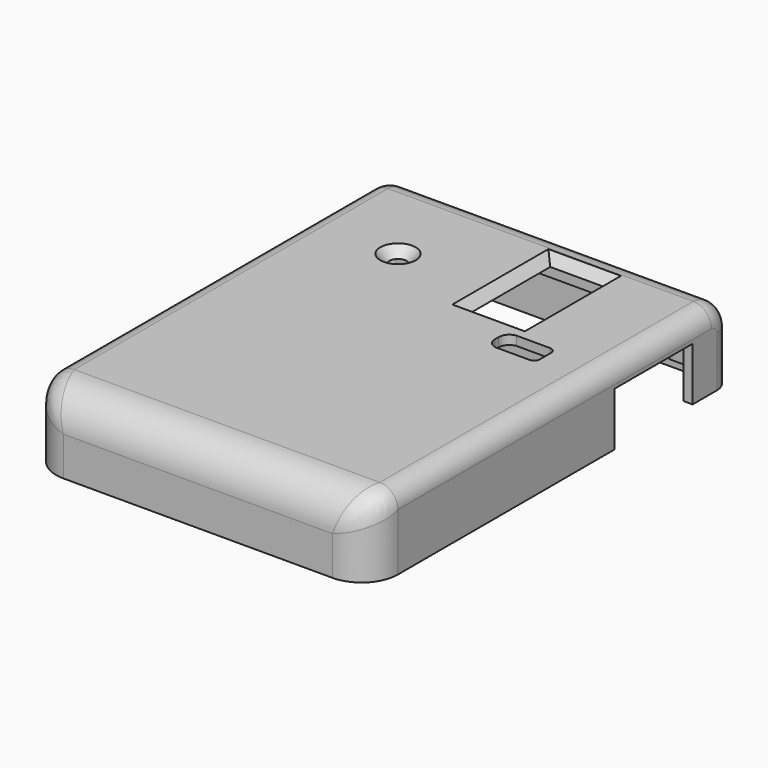
from build123d import *

# Parameters (mm, degrees)
SKETCH_W        = 75.4
SKETCH_H        = 100
PAD_DEPTH       = 16.6
SKETCH005_W     = 71.4
SKETCH005_H     = 96
POCKET_DEPTH    = 14.6
SKETCH006_W     = 21.6
SKETCH006_H     = 11.8
POCKET001_DEPTH = 2
SKETCH007_W     = 21.6
SKETCH007_H     = 11.8
POCKET002_DEPTH = 2
SKETCH008_W     = 7.6
SKETCH008_H     = 8.2
POCKET003_DEPTH = 2
POCKET004_DEPTH = 2
SKETCH010_R     = 3.9
SKETCH010_W     = 16
SKETCH010_H     = 26.5
POCKET005_DEPTH = 2
POCKET005_TAPER = 45
SKETCH011_W     = 15
SKETCH011_H     = 2
PAD005_DEPTH    = 14.6
SKETCH012_R     = 1.1
PAD006_DEPTH    = 8.6
SKETCH013_R     = 1.1
PAD007_DEPTH    = 10.4
FILLET_R        = 2
FILLET001_R     = 4
FILLET002_R     = 1
FILLET003_R     = 6
FILLET004_R     = 5.5
FILLET005_R     = 4
SKETCH022_W     = 31.2
SKETCH022_H     = 29
SKETCH022_W_2   = 28.8
SKETCH022_H_2   = 26.6
PAD013_DEPTH    = 3.4
FILLET011_R     = 8


with BuildPart() as part:
    # Sketch → Pad (new body)
    with BuildSketch(Plane.XY):
        with Locations((0, -28.5)):
            Rectangle(SKETCH_W, SKETCH_H)
    extrude(amount=PAD_DEPTH)

    # Sketch005 (on Face5 of Pad) → Pocket (cut)
    with BuildSketch(Plane(origin=(0, 0, 0), x_dir=(1, 0, 0), z_dir=(0, 0, -1))):
        with Locations((0, 28.5)):
            Rectangle(SKETCH005_W, SKETCH005_H)
    extrude(amount=-POCKET_DEPTH, mode=Mode.SUBTRACT)

    # Sketch006 (on Face3 of Pocket) → Pocket001 (cut)
    with BuildSketch(Plane.YZ.offset(37.7)):
        with Locations((0, 5.9)):
            Rectangle(SKETCH006_W, SKETCH006_H)
    extrude(amount=-POCKET001_DEPTH, mode=Mode.SUBTRACT)

    # Sketch007 (on Face2 of Pocket) → Pocket002 (cut)
    with BuildSketch(Plane(origin=(-37.7, 0, 0), x_dir=(0, -1, 0), z_dir=(-1, 0, 0))):
        with Locations((0, 5.9)):
            Rectangle(SKETCH007_W, SKETCH007_H)
    extrude(amount=-POCKET002_DEPTH, mode=Mode.SUBTRACT)

    # Sketch008 (on Face1 of Pocket) → Pocket003 (cut)
    with BuildSketch(Plane(origin=(0, 21.5, 0), x_dir=(-1, 0, 0), z_dir=(0, 1, 0))):
        with Locations((22, 4.1)):
            Rectangle(SKETCH008_W, SKETCH008_H)
    extrude(amount=-POCKET003_DEPTH, mode=Mode.SUBTRACT)

    # Sketch009 (on Face5 of Pocket) → Pocket004 (cut)
    with BuildSketch(Plane.XY.offset(16.6)):
        with BuildLine():
            Line((15.825713, -15.337742), (15.825713, -16.321696))
            ThreePointArc((15.825713, -16.321696), (16.397859, -17.902616), (17.897046, -18.663599))
            Line((17.897046, -18.663599), (25.282393, -18.663599))
            ThreePointArc((25.282393, -18.663599), (26.185781, -18.272491), (26.544973, -17.355945))
            Line((26.544973, -14.219638), (26.544973, -17.355945))
            ThreePointArc((26.544973, -14.219638), (26.159832, -13.349897), (25.274241, -13.00275))
            Line((17.921865, -13.00275), (25.274241, -13.00275))
            ThreePointArc((17.921865, -13.00275), (16.411472, -13.755218), (15.825713, -15.337742))
        make_face()
    extrude(amount=-POCKET004_DEPTH, mode=Mode.SUBTRACT)

    # Sketch010 (on Face5 of Pocket) → Pocket005 (cut)
    with BuildSketch(Plane.XY.offset(16.6)):
        with Locations((-17.145816, -1.900756)):
            Circle(SKETCH010_R)
        with Locations((10, 2.4)):
            Rectangle(SKETCH010_W, SKETCH010_H)
    extrude(amount=-POCKET005_DEPTH, taper=POCKET005_TAPER, mode=Mode.SUBTRACT)

    # Sketch011 (on Face11 of Pocket) → Pad005 (join)
    with BuildSketch(Plane(origin=(0, 0, 14.6), x_dir=(1, 0, 0), z_dir=(0, 0, -1))):
        with Locations((-28.2, 47.5)):
            Rectangle(SKETCH011_W, SKETCH011_H)
        with Locations((-28.2, 20.5)):
            Rectangle(SKETCH011_W, SKETCH011_H)
        with Locations((28.2, 47.5)):
            Rectangle(SKETCH011_W, SKETCH011_H)
        with Locations((28.2, 20.5)):
            Rectangle(SKETCH011_W, SKETCH011_H)
    extrude(amount=PAD005_DEPTH)

    # Sketch012 (on Face11 of Pocket) → Pad006 (join)
    with BuildSketch(Plane(origin=(0, 0, 14.6), x_dir=(1, 0, 0), z_dir=(0, 0, -1))):
        with BuildLine():
            Line((-35.7, -12.5), (-31.85, -12.5))
            ThreePointArc((-28.85, -15.5), (-29.72868, -13.37868), (-31.85, -12.5))
            Line((-28.85, -19.5), (-28.85, -15.5))
            Line((-28.85, -19.5), (-35.7, -19.5))
            Line((-35.7, -12.5), (-35.7, -19.5))
        make_face()
        with Locations((-31.85, -15.5)):
            Circle(SKETCH012_R, mode=Mode.SUBTRACT)
        with BuildLine():
            Line((28.85, -19.5), (28.85, -15.5))
            ThreePointArc((31.85, -12.5), (29.72868, -13.37868), (28.85, -15.5))
            Line((35.7, -12.5), (31.85, -12.5))
            Line((35.7, -12.5), (35.7, -19.5))
            Line((28.85, -19.5), (35.7, -19.5))
        make_face()
        with Locations((31.85, -15.5)):
            Circle(SKETCH012_R, mode=Mode.SUBTRACT)
        with BuildLine():
            Line((-35.7, 12.5), (-35.7, 19.5))
            Line((-35.7, 19.5), (-28.85, 19.5))
            Line((-28.85, 19.5), (-28.85, 15.5))
            ThreePointArc((-31.85, 12.5), (-29.72868, 13.37868), (-28.85, 15.5))
            Line((-35.7, 12.5), (-31.85, 12.5))
        make_face()
        with Locations((-31.85, 15.5)):
            Circle(SKETCH012_R, mode=Mode.SUBTRACT)
        with BuildLine():
            Line((31.85, 12.5), (35.7, 12.5))
            Line((35.7, 12.5), (35.7, 19.5))
            Line((35.7, 19.5), (28.85, 19.5))
            Line((28.85, 19.5), (28.85, 15.5))
            ThreePointArc((28.85, 15.5), (29.72868, 13.37868), (31.85, 12.5))
        make_face()
        with Locations((31.85, 15.5)):
            Circle(SKETCH012_R, mode=Mode.SUBTRACT)
    extrude(amount=PAD006_DEPTH)

    # Sketch013 (on Face11 of Pocket) → Pad007 (join)
    with BuildSketch(Plane(origin=(0, 0, 14.6), x_dir=(1, 0, 0), z_dir=(0, 0, -1))):
        with BuildLine():
            Line((-35.7, 76.5), (-29.35, 76.5))
            Line((-29.35, 76.5), (-29.35, 72.5))
            ThreePointArc((-31.85, 70), (-30.082233, 70.732233), (-29.35, 72.5))
            Line((-35.7, 70), (-31.85, 70))
            Line((-35.7, 76.5), (-35.7, 70))
        make_face()
        with Locations((-31.85, 72.5)):
            Circle(SKETCH013_R, mode=Mode.SUBTRACT)
        with BuildLine():
            Line((35.7, 76.5), (35.7, 70))
            Line((35.7, 70), (31.85, 70))
            ThreePointArc((29.35, 72.5), (30.082233, 70.732233), (31.85, 70))
            Line((29.35, 76.5), (29.35, 72.5))
            Line((35.7, 76.5), (29.35, 76.5))
        make_face()
        with Locations((31.85, 72.5)):
            Circle(SKETCH013_R, mode=Mode.SUBTRACT)
    extrude(amount=PAD007_DEPTH)

    # Fillet
    fillet_edges = [part.edges().sort_by_distance(p)[0] for p in [
        (-35.7, 0, 14.6),
        (-35.7, -34, 14.6),
        (-35.7, -59.25, 14.6),
        (35.7, 0, 14.6),
        (35.7, -34, 14.6),
        (35.7, -59.25, 14.6),
    ]]
    fillet(fillet_edges, radius=FILLET_R)

    # Fillet001
    fillet001_edges = [part.edges().sort_by_distance(p)[0] for p in [
        (0, 19.5, 14.6),
        (0, -76.5, 14.6),
    ]]
    fillet(fillet001_edges, radius=FILLET001_R)

    # Fillet002
    fillet002_edges = [part.edges().sort_by_distance(p)[0] for p in [
        (-35.7, 19.5, 3),
        (35.7, 19.5, 3),
    ]]
    fillet(fillet002_edges, radius=FILLET002_R)

    # Fillet003
    fillet003_edges = [part.edges().sort_by_distance(p)[0] for p in [
        (-35.7, -76.5, 2.1),
        (35.7, -76.5, 2.1),
    ]]
    fillet(fillet003_edges, radius=FILLET003_R)

    # Fillet004
    fillet004_edges = [part.edges().sort_by_distance(p)[0] for p in [
        (0, 21.5, 16.6),
    ]]
    fillet(fillet004_edges, radius=FILLET004_R)

    # Fillet005
    fillet005_edges = [part.edges().sort_by_distance(p)[0] for p in [
        (37.7, -31.25, 16.6),
        (37.7, 21.5, 5.55),
        (-37.7, -31.25, 16.6),
        (-37.7, 21.5, 5.55),
    ]]
    fillet(fillet005_edges, radius=FILLET005_R)

    # Sketch022 (on Face36 of Pad007) → Pad013 (join)
    with BuildSketch(Plane(origin=(0, 0, 14.6), x_dir=(1, 0, 0), z_dir=(0, 0, -1))):
        with Locations((8.156075, -2.412758)):
            Rectangle(SKETCH022_W, SKETCH022_H)
        with Locations((8.156075, -2.412758)):
            Rectangle(SKETCH022_W_2, SKETCH022_H_2, mode=Mode.SUBTRACT)
    extrude(amount=PAD013_DEPTH)

    # Fillet011
    fillet011_edges = [part.edges().sort_by_distance(p)[0] for p in [
        (0, -78.5, 16.6),
        (37.7, -78.5, 6.3),
        (-37.7, -78.5, 6.3),
    ]]
    fillet(fillet011_edges, radius=FILLET011_R)


with BuildPart() as part_1:
    # Body placement: moved
    add(part.part.moved(Location((0, 0, -2))))


solid = part_1.part
